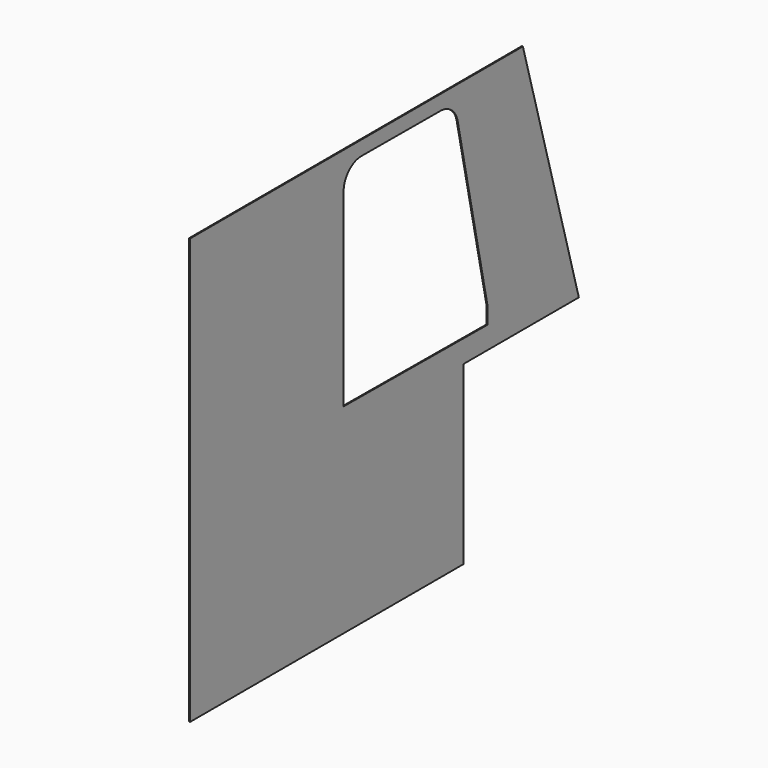
from build123d import *

# Parameters (mm, degrees)
F0_W     = 1958
F0_H     = 1715
F1_DEPTH = 4
F2_W     = 582
F2_H     = 710
F3_DEPTH = 4.001
F5_DEPTH = 4.001
F6_R     = 90


with BuildPart() as f1:
    # F0 (on Right) → F1 (new body)
    with BuildSketch(Plane.YZ):
        Rectangle(F0_W, F0_H)
    extrude(amount=F1_DEPTH)

    # F2 (on face) → F3 (cut, through all)
    with BuildSketch(Plane.YZ.offset(4)):
        Polygon((697, 857.5), (979, -147.5), (979, 857.5), align=None)
        with Locations((688, -502.5)):
            Rectangle(F2_W, F2_H)
    extrude(amount=-F3_DEPTH, mode=Mode.SUBTRACT)

    # F4 (on face) → F5 (cut, through all)
    with BuildSketch(Plane.YZ.offset(4)):
        Polygon((353.608048, 797.5), (-206, 799.5), (-206, -52.5), (519.614009, -57.5), (519.614009, 7.5), align=None)
    extrude(amount=-F5_DEPTH, mode=Mode.SUBTRACT)

    # F6
    f6_edges = [f1.edges().sort_by_distance(p)[0] for p in [
        (2, -206, 799.5),
        (2, 353.608048, 797.5),
    ]]
    fillet(f6_edges, radius=F6_R)


solid = f1.part
